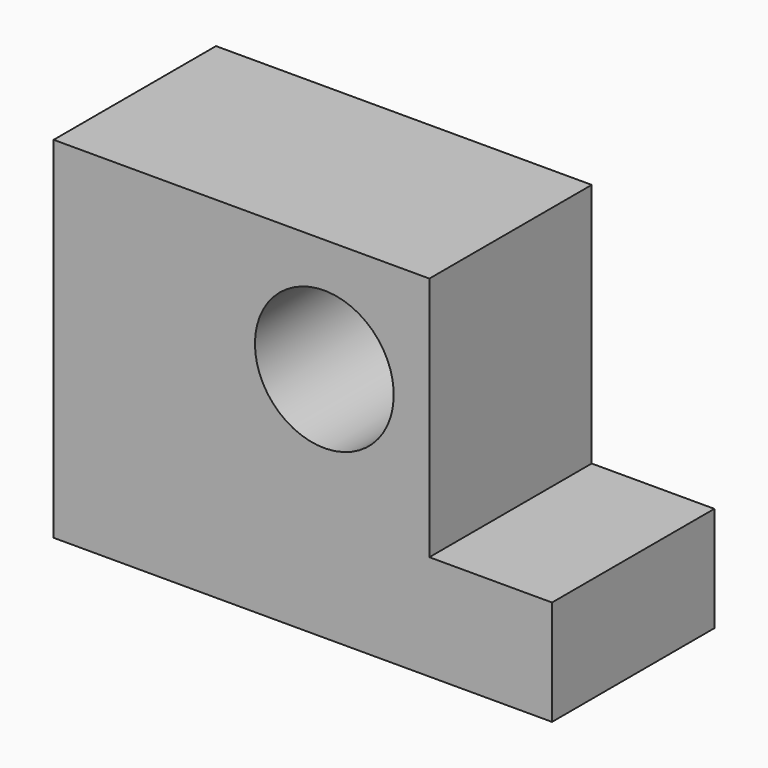
from build123d import *

# Parameters (mm, degrees)
F1_DEPTH = 30
F2_R     = 10.259212
F3_DEPTH = 30


with BuildPart() as f1:
    # F0 (on Front) → F1 (new body)
    with BuildSketch(Plane.XZ):
        Polygon((29.64399, 25.039099), (-25.902519, 25.039099), (-25.902519, -26.765937), (29.64399, -26.765937), (47.775757, -26.765937), (47.775757, -11.224424), (29.64399, -11.224424), align=None)
    extrude(amount=F1_DEPTH)

    # F2 (on face) → F3 (cut)
    with BuildSketch(Plane(origin=(0, 0, 0), x_dir=(-1, 0, 0), z_dir=(0, 1, 0))):
        with Locations((-14.11511, 8.183153)):
            Circle(F2_R)
    extrude(amount=-F3_DEPTH, mode=Mode.SUBTRACT)


solid = f1.part
